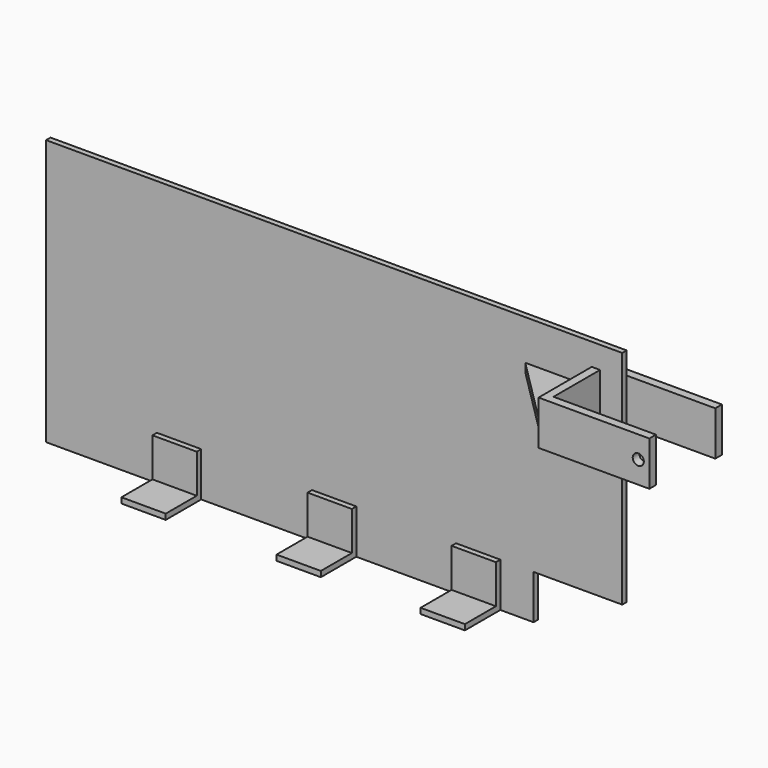
from build123d import *

# Parameters (mm, degrees)
F0_W      = 660.4
F0_H      = 304.8
F1_DEPTH  = 6.35
F2_W      = 50.8
F2_H      = 50.8
F3_DEPTH  = 6.35
F4_W      = 50.8
F4_H      = 6.35
F5_W      = 50.8
F5_H      = 6.35
F6_W      = 50.8
F6_H      = 6.35
F7_DEPTH  = 44.45
F8_W      = 101.6
F8_H      = 50.8
F9_DEPTH  = 9.525
F10_W     = 101.6
F10_H     = 50.8
F11_DEPTH = 25.4
F12_W     = 9.525
F12_H     = 50.8
F13_DEPTH = 76.2
F14_W     = 9.525
F14_H     = 50.8
F15_DEPTH = 117.475
F16_R     = 6.35
F17_DEPTH = 25.4
F18_W     = 76.2
F18_H     = 9.525
F19_DEPTH = 76.2
F21_DEPTH = 25.4


with BuildPart() as f1:
    # F0 (on Front) → F1 (new body)
    with BuildSketch(Plane.XZ):
        Rectangle(F0_W, F0_H)
    extrude(amount=F1_DEPTH)

    # F2 (on face) → F3 (join)
    with BuildSketch(Plane.XZ.offset(6.35)):
        with Locations((165.1, -127)):
            Rectangle(F2_W, F2_H)
        with Locations((0, -127)):
            Rectangle(F2_W, F2_H)
        with Locations((-177.8, -127)):
            Rectangle(F2_W, F2_H)
    extrude(amount=F3_DEPTH)

    # F4 (on face) + F5 (on face) + F6 (on face) → F7 (join)
    with BuildSketch(Plane.XZ.offset(12.7)):
        with Locations((-177.8, -149.225)):
            Rectangle(F4_W, F4_H)
    with BuildSketch(Plane.XZ.offset(12.7)):
        with Locations((0, -149.225)):
            Rectangle(F5_W, F5_H)
    with BuildSketch(Plane.XZ.offset(12.7)):
        with Locations((165.1, -149.225)):
            Rectangle(F6_W, F6_H)
    extrude(amount=F7_DEPTH)

    # F8 (on face) → F9 (join)
    with BuildSketch(Plane(origin=(0, 0, 0), x_dir=(-1, 0, 0), z_dir=(0, 1, 0))):
        with Locations((-381, 101.6)):
            Rectangle(F8_W, F8_H)
        with Locations((-279.4, 101.6)):
            Rectangle(F8_W, F8_H)
    extrude(amount=F9_DEPTH)

    # F10 (on face) → F11 (cut)
    with BuildSketch(Plane.XZ.offset(6.35)):
        with Locations((279.4, -127)):
            Rectangle(F10_W, F10_H)
    extrude(amount=-F11_DEPTH, mode=Mode.SUBTRACT)

    # F12 (on face) → F13 (join)
    with BuildSketch(Plane.XZ.offset(6.35)):
        with Locations((300.0375, 101.6)):
            Rectangle(F12_W, F12_H)
    extrude(amount=F13_DEPTH)

    # F14 (on face) → F15 (join)
    with BuildSketch(Plane.YZ.offset(304.8)):
        with Locations((-77.7875, 101.6)):
            Rectangle(F14_W, F14_H)
    extrude(amount=F15_DEPTH)

    # F16 (on face) → F17 (cut)
    with BuildSketch(Plane.XZ.offset(82.55)):
        with Locations((409.575, 101.6)):
            Circle(F16_R)
    extrude(amount=-F17_DEPTH, mode=Mode.SUBTRACT)

    # F18 (on face) → F19 (join)
    with BuildSketch(Plane(origin=(295.275, 0, 0), x_dir=(0, -1, 0), z_dir=(-1, 0, 0))):
        with Locations((44.45, 101.6)):
            Rectangle(F18_W, F18_H)
    extrude(amount=F19_DEPTH)

    # F20 (on face) → F21 (cut)
    with BuildSketch(Plane(origin=(0, 0, 96.8375), x_dir=(1, 0, 0), z_dir=(0, 0, -1))):
        Polygon((219.075, 82.55), (219.075, 6.35), (295.275, 82.55), align=None)
    extrude(amount=-F21_DEPTH, mode=Mode.SUBTRACT)


solid = f1.part
